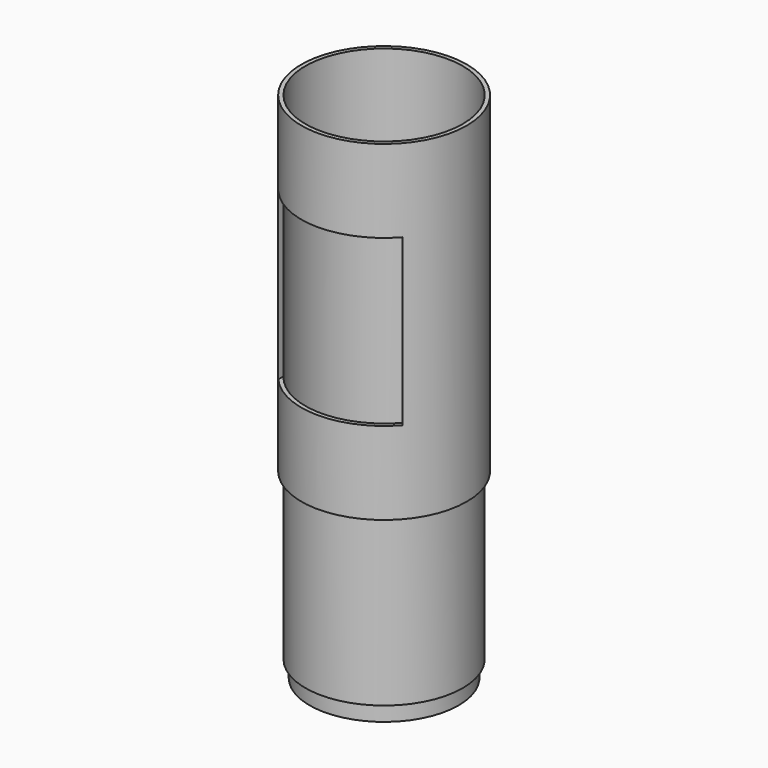
from build123d import *

# Parameters (mm, degrees)
F0_R      = 20
F0_R_2    = 19
F1_DEPTH  = 80
F3_W      = 30
F3_H      = 40
F4_DEPTH  = 25
F5_R      = 20
F6_DEPTH  = 60
F7_W      = 25
F7_H      = 35
F8_DEPTH  = 10
F10_R     = 19
F10_R_2   = 18
F11_DEPTH = 40
F12_R     = 18
F13_DEPTH = 4


with BuildPart() as f1:
    # F0 (on Top) → F1 (new body)
    with BuildSketch(Plane.XY):
        Circle(F0_R)
        Circle(F0_R_2, mode=Mode.SUBTRACT)
    extrude(amount=F1_DEPTH)

    # F3 (on offset) → F4 (cut)
    with BuildSketch(Plane.XZ.offset(20)):
        with Locations((0, 40)):
            Rectangle(F3_W, F3_H)
    extrude(amount=-F4_DEPTH, mode=Mode.SUBTRACT)

    # F7 (on offset) → F8 (cut)
    with BuildSketch(Plane.XZ.offset(20)):
        with Locations((0, 27.5)):
            Rectangle(F7_W, F7_H)
    extrude(amount=F8_DEPTH, mode=Mode.SUBTRACT)


with BuildPart() as f6:
    # F5 (on face) → F6 (new body)
    with BuildSketch(Plane(origin=(0, 0, 0), x_dir=(1, 0, 0), z_dir=(0, 0, -1))):
        Circle(F5_R)
        with BuildLine():
            ThreePointArc((-19, 0), (0, 19), (19, 0))
            ThreePointArc((19, 0), (0, -19), (-19, 0))
        make_face(mode=Mode.SUBTRACT)
    extrude(amount=-F6_DEPTH)


with BuildPart() as f11:
    # F10 (on face) → F11 (new body)
    with BuildSketch(Plane(origin=(0, 0, 0), x_dir=(1, 0, 0), z_dir=(0, 0, -1))):
        Circle(F10_R)
        Circle(F10_R_2, mode=Mode.SUBTRACT)
    extrude(amount=F11_DEPTH)


with BuildPart() as f13:
    # F12 (on face) → F13 (new body)
    with BuildSketch(Plane(origin=(0, 0, -40), x_dir=(1, 0, 0), z_dir=(0, 0, -1))):
        Circle(F12_R)
    extrude(amount=F13_DEPTH)


solid = Compound([f1.part, f11.part, f13.part])
